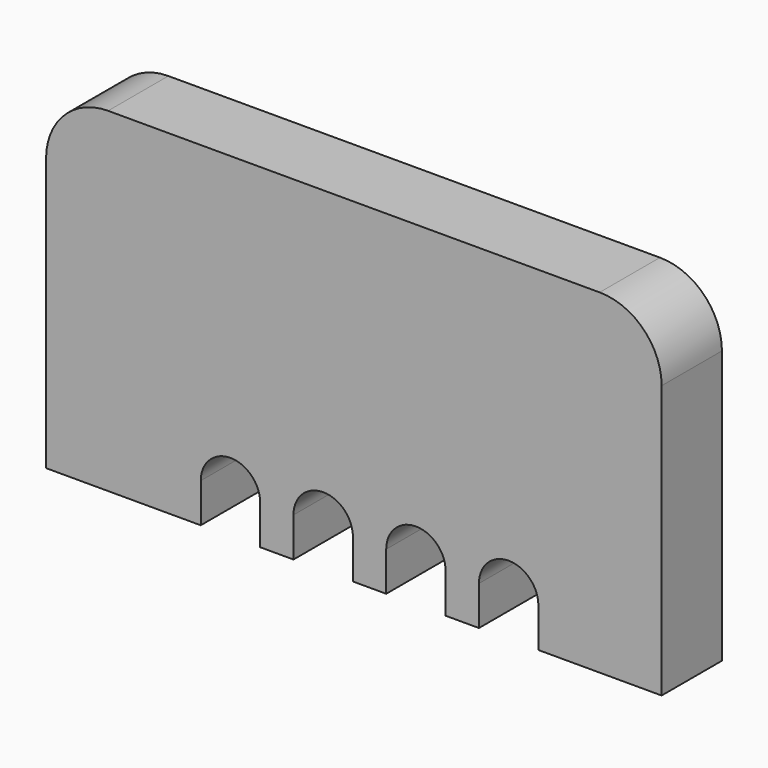
from build123d import *

# Parameters (mm, degrees)
F1_DEPTH = 3.55


with BuildPart() as f1:
    # F0 (on Front) → F1 (new body)
    with BuildSketch(Plane.XZ):
        with BuildLine():
            Line((-82.440973, -27.461596), (-105.598973, -27.461596))
            ThreePointArc((-105.598973, -27.461596), (-107.664432, -28.317137), (-108.519973, -30.382596))
            Line((-108.519973, -30.382596), (-108.519973, -43.232596))
            Line((-108.519973, -43.232596), (-101.233173, -43.232596))
            Line((-101.233173, -43.232596), (-101.233173, -41.382596))
            ThreePointArc((-101.233173, -41.382596), (-99.833173, -39.982596), (-98.433173, -41.382596))
            Line((-98.433173, -41.382596), (-98.433173, -43.232596))
            Line((-98.433173, -43.232596), (-96.864373, -43.232596))
            Line((-96.864373, -43.232596), (-96.864373, -41.382596))
            ThreePointArc((-96.864373, -41.382596), (-95.464373, -39.982596), (-94.064373, -41.382596))
            Line((-94.064373, -41.382596), (-94.064373, -43.232596))
            Line((-94.064373, -43.232596), (-92.495573, -43.232596))
            Line((-92.495573, -43.232596), (-92.495573, -41.382596))
            ThreePointArc((-92.495573, -41.382596), (-91.095573, -39.982596), (-89.695573, -41.382596))
            Line((-89.695573, -41.382596), (-89.695573, -43.232596))
            Line((-89.695573, -43.232596), (-88.126773, -43.232596))
            Line((-88.126773, -43.232596), (-88.126773, -41.382596))
            ThreePointArc((-88.126773, -41.382596), (-86.726773, -39.982596), (-85.326773, -41.382596))
            Line((-85.326773, -41.382596), (-85.326773, -43.232596))
            Line((-85.326773, -43.232596), (-79.519973, -43.232596))
            Line((-79.519973, -43.232596), (-79.519973, -43.218596))
            Line((-79.519973, -43.218596), (-79.519973, -30.382596))
            ThreePointArc((-79.519973, -30.382596), (-80.375514, -28.317137), (-82.440973, -27.461596))
        make_face()
    extrude(amount=F1_DEPTH)


solid = f1.part
